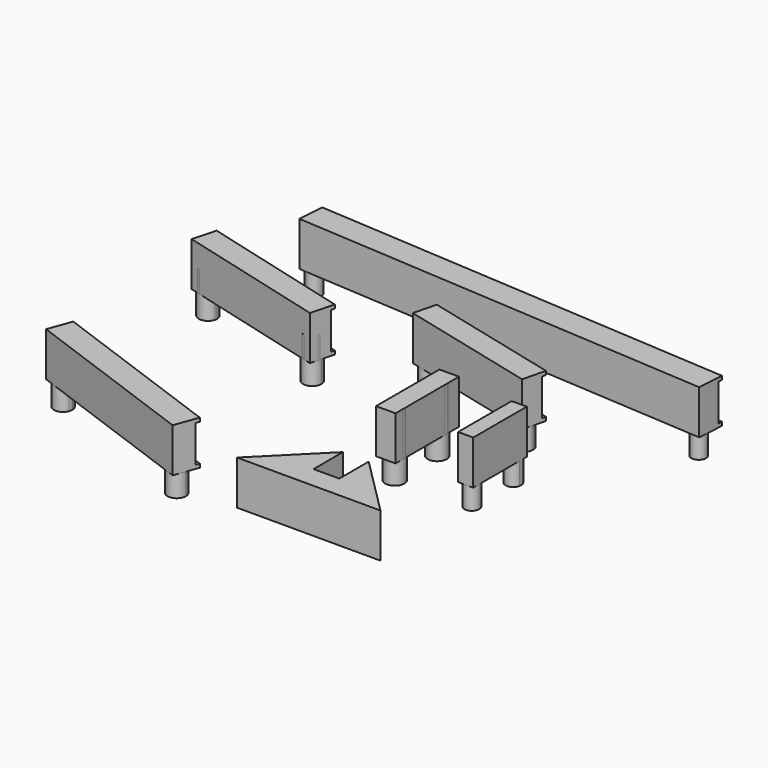
from build123d import *

# Parameters (mm, degrees)
F2_DEPTH  = 7.62
F3_DEPTH  = 15.24
F5_DEPTH  = 15.24
F6_W      = 65.6332046197
F6_H      = 12.7
F7_DEPTH  = 0.762
F9_DEPTH  = 7.62
F10_DEPTH = 15.24
F12_DEPTH = 15.24
F13_W     = 48.5836209363
F13_H     = 12.7
F14_DEPTH = 1.27
F15_R     = 3.302
F16_DEPTH = 7.62
F17_DEPTH = 15.24
F18_W     = 6.7440699786
F18_H     = 27.3777097464
F19_DEPTH = 15.24
F21_DEPTH = 15.24
F22_DEPTH = 7.62
F24_DEPTH = 15.24
F25_W     = 53.6186267683
F25_H     = 12.7
F26_DEPTH = 1.27
F28_DEPTH = 15.24
F29_W     = 65.6332046197
F29_H     = 12.7
F30_DEPTH = 1.27
F31_R     = 2.54
F32_DEPTH = 7.62
F33_DEPTH = 15.24
F34_W     = 145.8661322359
F34_H     = 12.7
F35_DEPTH = 1.27
F36_R     = 2.5527
F37_DEPTH = 15.24
F38_DEPTH = 7.62


with BuildPart() as f2:
    # F1 (on Top) → F2 (new body)
    with BuildSketch(Plane.XY):
        with BuildLine():
            ThreePointArc((-64.4301145906, -28.7365379278), (-64.2864385694, -28.2011943594), (-64.2380550206, -27.649021771))
            ThreePointArc((-64.2380550206, -27.649021771), (-70.5396714717, -27.0968491825), (-64.4301145906, -28.7365379278))
        make_face()
    extrude(amount=-F2_DEPTH)


with BuildPart() as f2b:
    # F1 (on Top) → F2, piece 2 (new body)
    with BuildSketch(Plane.XY):
        with BuildLine():
            ThreePointArc((-8.8508171172, -47.842021771), (-11.4736445288, -44.7154053198), (-15.0087575472, -46.7545056141))
            ThreePointArc((-15.0087575472, -46.7545056141), (-12.5779897057, -50.9686382221), (-8.8508171172, -47.842021771))
        make_face()
    extrude(amount=-F2_DEPTH)


with BuildPart() as f3:
    # F3 (new): a face of the model
    f3_faces = [f2.part.faces().sort_by_distance(p)[0] for p in [
        (-67.4130550206, -27.649021771, 0),
    ]]
    extrude(f3_faces, amount=F3_DEPTH)


with BuildPart() as f3b:
    # F3#2 (new): a face of the model
    f3_2_faces = [f2b.part.faces().sort_by_distance(p)[0] for p in [
        (-12.0258171172, -47.842021771, 0),
    ]]
    extrude(f3_2_faces, amount=F3_DEPTH)


with BuildPart() as f5:
    # F4 (on Top) → F5 (new body)
    with BuildSketch(Plane.XY):
        Polygon((-68.8470715069, -21.4705884695), (-71.7812530259, -29.5187343538), (-10.1182799212, -51.9997329203), (-7.1840984022, -43.9515870359), align=None)
    extrude(amount=F5_DEPTH)

    # F6 (on face) → F7 (cut)
    with BuildSketch(Plane(origin=(-14.9867037038, -41.1069243515, 0), x_dir=(-0.9395087968, 0.3425247738, 0), z_dir=(0.3425247738, 0.9395087968, 0))):
        with Locations((24.5116185482, 7.62)):
            Rectangle(F6_W, F6_H)
    extrude(amount=-F7_DEPTH, mode=Mode.SUBTRACT)


with BuildPart() as f9:
    # F8 (on Top) → F9 (new body)
    with BuildSketch(Plane.XY):
        with BuildLine():
            ThreePointArc((6.5499569589, 41.1555171078), (6.6209660134, 41.537635855), (6.6447545209, 41.9255677172))
            ThreePointArc((6.6447545209, 41.9255677172), (0.3185430285, 42.3134995795), (6.5499569589, 41.1555171078))
        make_face()
    extrude(amount=-F9_DEPTH)


with BuildPart() as f9b:
    # F8 (on Top) → F9, piece 2 (new body)
    with BuildSketch(Plane.XY):
        with BuildLine():
            ThreePointArc((47.2847545209, 31.7655677172), (44.4976863832, 34.9167792097), (41.029552083, 32.5356183267))
            ThreePointArc((41.029552083, 32.5356183267), (43.7218226587, 28.6143562248), (47.2847545209, 31.7655677172))
        make_face()
    extrude(amount=-F9_DEPTH)


with BuildPart() as f10:
    # F10 (new): a face of the model
    f10_faces = [f9.part.faces().sort_by_distance(p)[0] for p in [
        (3.4697545209, 41.9255677172, 0),
    ]]
    extrude(f10_faces, amount=F10_DEPTH)


with BuildPart() as f10b:
    # F10#2 (new): a face of the model
    f10_2_faces = [f9b.part.faces().sort_by_distance(p)[0] for p in [
        (44.1097545209, 31.7655677172, 0),
    ]]
    extrude(f10_2_faces, amount=F10_DEPTH)


with BuildPart() as f12:
    # F11 (on Top) → F12 (new body)
    with BuildSketch(Plane.XY):
        Polygon((48.6346241865, 35.6602623446), (1.5015887053, 47.4435212149), (-0.4665534053, 39.5709527725), (46.6664820759, 27.7876939022), align=None)
    extrude(amount=F12_DEPTH)

    # F13 (on face) → F14 (cut)
    with BuildSketch(Plane(origin=(11.2515102097, 45.0060408388, 0), x_dir=(-0.9701425001, 0.242535625, 0), z_dir=(0.242535625, 0.9701425001, 0))):
        with Locations((-14.2418214171, 7.62)):
            Rectangle(F13_W, F13_H)
    extrude(amount=-F14_DEPTH, mode=Mode.SUBTRACT)


with BuildPart() as f16:
    # F15 (on Top) → F16 (new body)
    with BuildSketch(Plane.XY):
        with Locations((29.2160604149, 12.9814512787)):
            Circle(F15_R)
    extrude(amount=-F16_DEPTH)


with BuildPart() as f16b:
    # F15 (on Top) → F16, piece 2 (new body)
    with BuildSketch(Plane.XY):
        with Locations((29.2160604149, -5.3065487213)):
            Circle(F15_R)
    extrude(amount=-F16_DEPTH)


with BuildPart() as f17:
    # F17 (new): a face of the model
    f17_faces = [f16.part.faces().sort_by_distance(p)[0] for p in [
        (29.2160604149, 12.9814512787, 0),
    ]]
    extrude(f17_faces, amount=F17_DEPTH)


with BuildPart() as f17b:
    # F17#2 (new): a face of the model
    f17_2_faces = [f16b.part.faces().sort_by_distance(p)[0] for p in [
        (29.2160604149, -5.3065487213, 0),
    ]]
    extrude(f17_2_faces, amount=F17_DEPTH)


with BuildPart() as f19:
    # F18 (on Top) → F19 (new body)
    with BuildSketch(Plane.XY):
        with Locations((29.0872352198, 4.6601220965)):
            Rectangle(F18_W, F18_H)
    extrude(amount=F19_DEPTH)


with BuildPart() as f21:
    # F20 (on Top) → F21 (new body)
    with BuildSketch(Plane.XY):
        Polygon((35.5280892919, -48.263547454), (35.5280892919, -35.563547454), (15.2080892919, -55.883547454), (64.7380892919, -55.883547454), (44.4180892919, -35.563547454), (44.4180892919, -48.263547454), align=None)
    extrude(amount=F21_DEPTH)


with BuildPart() as f22:
    # F0 (on Top) → F22 (new body, symmetric)
    with BuildSketch(Plane.XY):
        with BuildLine():
            ThreePointArc((-67.0576035657, 37.4532502033), (-66.9776316641, 37.8580175355), (-66.9508234596, 38.2697376084))
            ThreePointArc((-66.9508234596, 38.2697376084), (-73.2740152552, 38.6814576813), (-67.0576035657, 37.4532502033))
        make_face()
    extrude(amount=F22_DEPTH, both=True)


with BuildPart() as f22b:
    # F0 (on Top) → F22, piece 2 (new body, symmetric)
    with BuildSketch(Plane.XY):
        with BuildLine():
            ThreePointArc((-21.2308234596, 26.1031376084), (-23.9941033867, 29.251329404), (-27.4740433535, 26.9196250135))
            ThreePointArc((-27.4740433535, 26.9196250135), (-24.8175435325, 22.9549458129), (-21.2308234596, 26.1031376084))
        make_face()
    extrude(amount=F22_DEPTH, both=True)


with BuildPart() as f24:
    # F23 (on Top) → F24 (new body)
    with BuildSketch(Plane.XY):
        Polygon((-71.8287429624, 44.1244396145), (-73.9761553172, 36.0548316004), (-22.1608049758, 22.2661911485), (-20.0133926209, 30.3357991625), align=None)
    extrude(amount=F24_DEPTH)

    # F25 (on face) → F26 (cut)
    with BuildSketch(Plane(origin=(6.2153047772, 23.3560513549, 0), x_dir=(-0.9663684705, 0.2571613874, 0), z_dir=(0.2571613874, 0.9663684705, 0))):
        with Locations((53.9508212027, 7.62)):
            Rectangle(F25_W, F25_H)
    extrude(amount=-F26_DEPTH, mode=Mode.SUBTRACT)


with BuildPart() as f28:
    # F4 (on Top) → F28 (new body)
    with BuildSketch(Plane.XY):
        Polygon((-68.8470715069, -21.4705884695), (-71.7812530259, -29.5187343538), (-10.1182799212, -51.9997329203), (-7.1840984022, -43.9515870359), align=None)
    extrude(amount=F28_DEPTH)

    # F29 (on face) → F30 (cut)
    with BuildSketch(Plane(origin=(-14.9867037038, -41.1069243515, 0), x_dir=(-0.9395087968, 0.3425247738, 0), z_dir=(0.3425247738, 0.9395087968, 0))):
        with Locations((24.5116185482, 7.62)):
            Rectangle(F29_W, F29_H)
    extrude(amount=-F30_DEPTH, mode=Mode.SUBTRACT)


with BuildPart() as f32:
    # F31 (on Top) → F32 (new body, symmetric)
    with BuildSketch(Plane.XY):
        with Locations((-55.8419707447, 66.1799226339)):
            Circle(F31_R)
    extrude(amount=F32_DEPTH, both=True)


with BuildPart() as f32b:
    # F31 (on Top) → F32, piece 2 (new body, symmetric)
    with BuildSketch(Plane.XY):
        with Locations((84.1981161545, 57.0867226339)):
            Circle(F31_R)
    extrude(amount=F32_DEPTH, both=True)


with BuildPart() as f33:
    # F31 (on Top) → F33 (new body)
    with BuildSketch(Plane.XY):
        Polygon((87.4465803008, 63.0559547052), (-58.1130151955, 72.5075520519), (-58.701358828, 63.4467490984), (86.8582366683, 53.9951517517), align=None)
        with Locations((84.1981161545, 57.0867226339)):
            Circle(F31_R, mode=Mode.SUBTRACT)
        with Locations((-55.8419707447, 66.1799226339)):
            Circle(F31_R, mode=Mode.SUBTRACT)
        with Locations((-55.8419707447, 66.1799226339)):
            Circle(F31_R)
        with Locations((84.1981161545, 57.0867226339)):
            Circle(F31_R)
    extrude(amount=F33_DEPTH)

    # F34 (on face) → F35 (cut)
    with BuildSketch(Plane(origin=(4.4443619956, 68.4455241364, 0), x_dir=(-0.9978985064, 0.0647963801, 0), z_dir=(0.0647963801, 0.9978985064, 0))):
        with Locations((-10.2439481482, 7.62)):
            Rectangle(F34_W, F34_H)
    extrude(amount=-F35_DEPTH, mode=Mode.SUBTRACT)


with BuildPart() as f37:
    # F36 (on Top) → F37 (new body)
    with BuildSketch(Plane.XY):
        with BuildLine():
            Line((57.6447546482, -7.0078326389), (57.6447546482, 12.9022978134))
            ThreePointArc((57.6447546482, 12.9022978134), (54.94319352, 10.8905093291), (52.4261258543, 13.1288336579))
            Line((52.4261258543, 13.1288336579), (52.4261258543, -7.0078326389))
            Line((52.4261258543, -7.0078326389), (57.6447546482, -7.0078326389))
        make_face()
        with Locations((55.0588565974, -4.3646999029)):
            Circle(F36_R, mode=Mode.SUBTRACT)
        with BuildLine():
            Line((57.6447546482, -7.0078326389), (57.6447546482, 12.9022978134))
            ThreePointArc((57.6447546482, 12.9022978134), (54.94319352, 10.8905093291), (52.4261258543, 13.1288336579))
            Line((52.4261258543, 13.1288336579), (52.4261258543, -7.0078326389))
            Line((52.4261258543, -7.0078326389), (57.6447546482, -7.0078326389))
        make_face()
        with Locations((55.0588565974, -4.3646999029)):
            Circle(F36_R, mode=Mode.SUBTRACT)
        with BuildLine():
            Line((57.6447546482, 12.9022978134), (57.6447546482, 14.2077023807))
            ThreePointArc((57.6447546482, 14.2077023807), (56.9796356536, 15.4052694876), (55.8077692005, 16.1146912724))
            Line((55.8077692005, 16.1146912724), (54.3099439944, 16.1146912724))
            ThreePointArc((54.3099439944, 16.1146912724), (53.0596417815, 15.3202278783), (52.4261258543, 13.9811665362))
            Line((52.4261258543, 13.9811665362), (52.4261258543, 13.1288336579))
            ThreePointArc((52.4261258543, 13.1288336579), (54.94319352, 10.8905093291), (57.6447546482, 12.9022978134))
        make_face()
        with Locations((55.0588565974, -4.3646999029)):
            Circle(F36_R)
        with BuildLine():
            ThreePointArc((52.4261258543, 13.9811665362), (53.0596417815, 15.3202278783), (54.3099439944, 16.1146912724))
            Line((54.3099439944, 16.1146912724), (52.4261258543, 16.1146912724))
            Line((52.4261258543, 16.1146912724), (52.4261258543, 13.9811665362))
        make_face()
        with BuildLine():
            ThreePointArc((55.8077692005, 16.1146912724), (56.9796356536, 15.4052694876), (57.6447546482, 14.2077023807))
            Line((57.6447546482, 14.2077023807), (57.6447546482, 16.1146912724))
            Line((57.6447546482, 16.1146912724), (55.8077692005, 16.1146912724))
        make_face()
    extrude(amount=F37_DEPTH)

    # F36 (on Top) → F38 (join)
    with BuildSketch(Plane.XY):
        with BuildLine():
            Line((57.6447546482, 12.9022978134), (57.6447546482, 14.2077023807))
            ThreePointArc((57.6447546482, 14.2077023807), (56.9796356536, 15.4052694876), (55.8077692005, 16.1146912724))
            Line((55.8077692005, 16.1146912724), (54.3099439944, 16.1146912724))
            ThreePointArc((54.3099439944, 16.1146912724), (53.0596417815, 15.3202278783), (52.4261258543, 13.9811665362))
            Line((52.4261258543, 13.9811665362), (52.4261258543, 13.1288336579))
            ThreePointArc((52.4261258543, 13.1288336579), (54.94319352, 10.8905093291), (57.6447546482, 12.9022978134))
        make_face()
        with Locations((55.0588565974, -4.3646999029)):
            Circle(F36_R)
    extrude(amount=-F38_DEPTH)


solid = Compound([f2.part, f2b.part, f3.part, f3b.part, f9.part, f9b.part, f10.part, f10b.part, f12.part, f16.part, f16b.part, f17.part, f17b.part, f19.part, f21.part, f22.part, f22b.part, f24.part, f28.part, f32.part, f32b.part, f33.part, f37.part])
